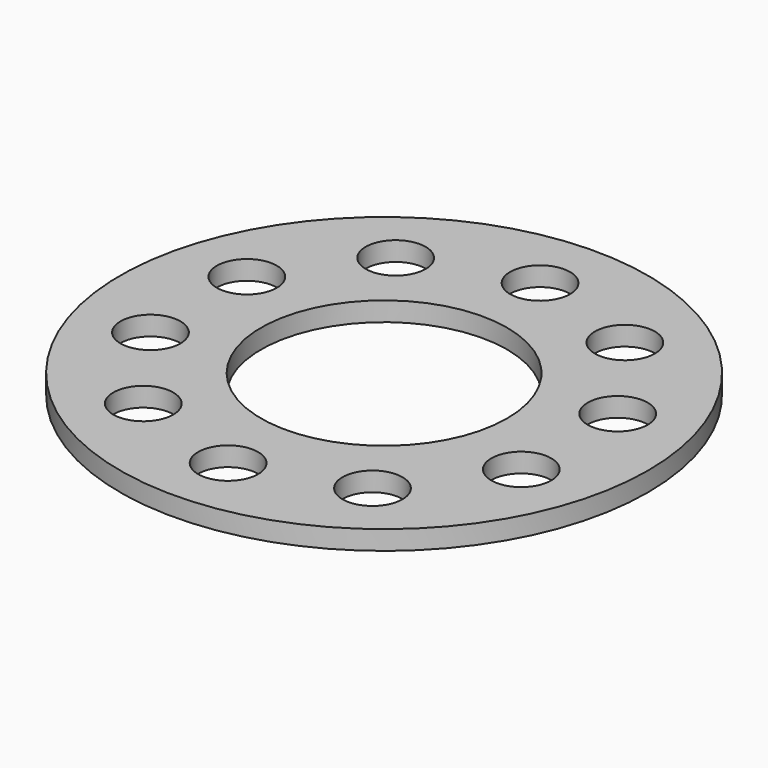
from build123d import *

# Parameters (mm, degrees)
F0_R     = 44
F0_R_2   = 5
F0_R_3   = 20.5
F1_DEPTH = 3.2


with BuildPart() as f1:
    # F0 (on Top) → F1 (new body)
    with BuildSketch(Plane.XY):
        Circle(F0_R)
        with Locations((-19.103021, -26.293052)):
            Circle(F0_R_2, mode=Mode.SUBTRACT)
        with Locations((-30.909337, -10.043052)):
            Circle(F0_R_2, mode=Mode.SUBTRACT)
        with Locations((0, -32.5)):
            Circle(F0_R_2, mode=Mode.SUBTRACT)
        with Locations((19.103021, -26.293052)):
            Circle(F0_R_2, mode=Mode.SUBTRACT)
        with Locations((30.909337, -10.043052)):
            Circle(F0_R_2, mode=Mode.SUBTRACT)
        with Locations((-30.909337, 10.043052)):
            Circle(F0_R_2, mode=Mode.SUBTRACT)
        with Locations((-19.103021, 26.293052)):
            Circle(F0_R_2, mode=Mode.SUBTRACT)
        Circle(F0_R_3, mode=Mode.SUBTRACT)
        with Locations((30.909337, 10.043052)):
            Circle(F0_R_2, mode=Mode.SUBTRACT)
        with Locations((0, 32.5)):
            Circle(F0_R_2, mode=Mode.SUBTRACT)
        with Locations((19.103021, 26.293052)):
            Circle(F0_R_2, mode=Mode.SUBTRACT)
    extrude(amount=F1_DEPTH)


solid = f1.part
